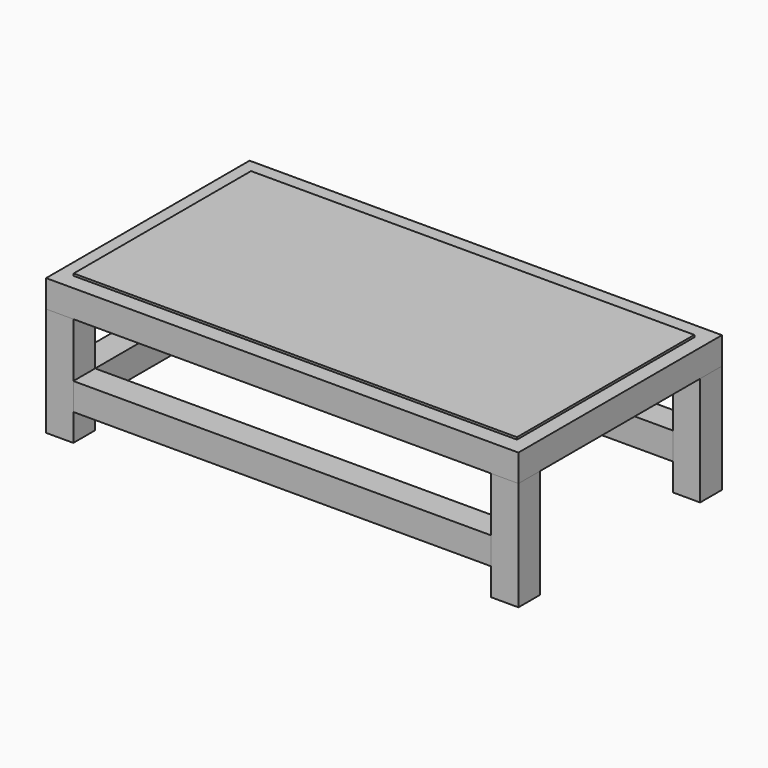
from build123d import *

# Parameters (mm, degrees)
F0_W           = 2440
F0_H           = 1220
F1_DEPTH       = 12
F2_W           = 2600
F2_H           = 1400
F3_DEPTH       = 150
F4_W           = 150
F4_H           = 150
F5_DEPTH       = 600
F9_W           = 150
F9_H           = 150
F10_DEPTH      = 2300
F12_W          = 150
F12_H          = 150
F13_DEPTH      = 550
F13_DEPTH_BACK = 550


with BuildPart() as f1:
    # F0 (on Top) → F1 (new body)
    with BuildSketch(Plane.XY):
        Rectangle(F0_W, F0_H)
    extrude(amount=F1_DEPTH)


with BuildPart() as f3:
    # F2 (on Top) → F3 (new body)
    with BuildSketch(Plane.XY):
        Rectangle(F2_W, F2_H)
    extrude(amount=-F3_DEPTH)


with BuildPart() as f5:
    # F4 (on face) → F5 (new body)
    with BuildSketch(Plane(origin=(0, 0, -150), x_dir=(1, 0, 0), z_dir=(0, 0, -1))):
        with Locations((-1225, 625)):
            Rectangle(F4_W, F4_H)
    extrude(amount=F5_DEPTH)


with BuildPart() as f6_1:
    # F6: copy of F5
    add(f5.part.moved(Location((2450, 0, 0))))


with BuildPart() as f7_1:
    # F7: copy of F5
    add(f5.part.moved(Location((0, 1250, 0))))


with BuildPart() as f8_1:
    # F8: copy of F6_1
    add(f6_1.part.moved(Location((0, 1250, 0))))


with BuildPart() as f10:
    # F9 (on face) → F10 (new body, through all)
    with BuildSketch(Plane(origin=(1150, 0, 0), x_dir=(0, -1, 0), z_dir=(-1, 0, 0))):
        with Locations((-625, -525)):
            Rectangle(F9_W, F9_H)
    extrude(amount=F10_DEPTH)


with BuildPart() as f11_1:
    # F11: copy of F10
    add(f10.part.moved(Location((0, -1250, 0))))


with BuildPart() as f13:
    # F12 (on Front) → F13 (new body, two sides)
    with BuildSketch(Plane.XZ) as f13_sk:
        with Locations((-1225, -525)):
            Rectangle(F12_W, F12_H)
    extrude(amount=F13_DEPTH)
    extrude(f13_sk.sketch, amount=-F13_DEPTH_BACK)


solid = Compound([f1.part, f3.part, f5.part, f6_1.part, f7_1.part, f8_1.part, f10.part, f11_1.part, f13.part])
